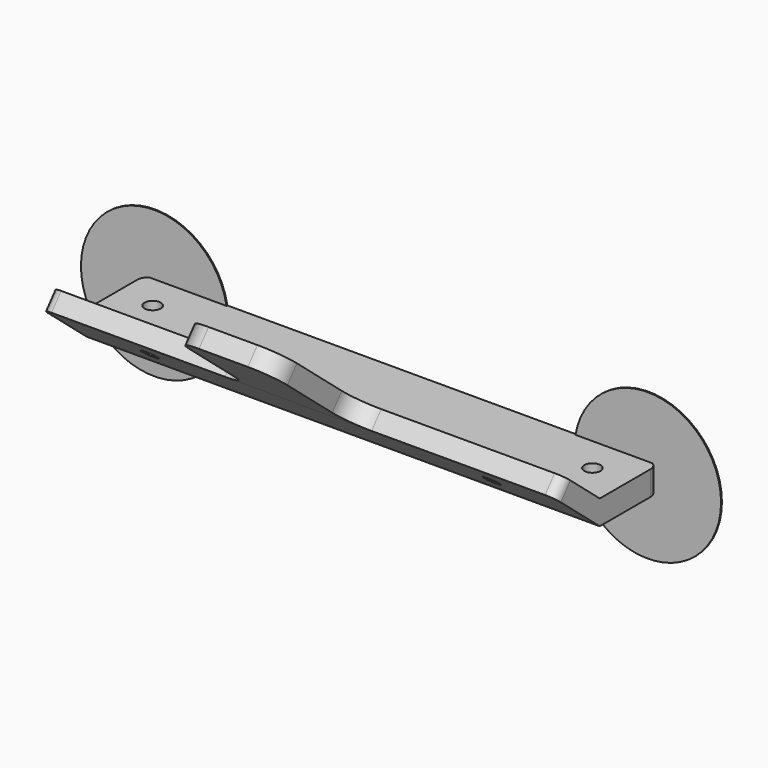
from build123d import *

# Parameters (mm, degrees)
F1_DEPTH       = 105
F3_R           = 2
F4_D           = 3.3
F4_DEPTH       = 15
F4_CSINK_D     = 6.72
F4_CSINK_ANGLE = 90
F4_TIP         = 0.9914200214
F6_D           = 3.3
F6_DEPTH       = 15
F6_TIP         = 0.9914200214
F7_W           = 20
F7_H           = 3.8302222156
F8_DEPTH       = 25
F9_R           = 5
F11_DEPTH      = 0.22


with BuildPart() as f1:
    # F0 (on Right) → F1 (new body)
    with BuildSketch(Plane.YZ):
        Polygon((-11.4906666468, 9.6418141453), (0, 0), (15, 0), (15, 5), (0, 5), (-9.0286472643, 12.5759345895), align=None)
    extrude(amount=F1_DEPTH)

    # F3
    f3_edges = [f1.edges().sort_by_distance(p)[0] for p in [
        (0, 15, 2.5),
        (105, 15, 2.5),
        (105, -10.259657, 11.108874),
        (0, -10.259657, 11.108874),
    ]]
    fillet(f3_edges, radius=F3_R)

    # F4
    with Locations(Plane(origin=(0, 0, 0), x_dir=(1, 0, 0), z_dir=(0, 0, -1))):
        with Locations((7.5, -7.5), (97.5, -7.5)):
            CounterSinkHole(F4_D / 2, F4_CSINK_D / 2, depth=F4_DEPTH, counter_sink_angle=F4_CSINK_ANGLE)
            with Locations((0, 0, -(F4_DEPTH + F4_TIP / 2))):  # 118° drill point
                Cone(0, F4_D / 2, F4_TIP, mode=Mode.SUBTRACT)

    # F6
    with Locations(Plane(origin=(0, 0, 0), x_dir=(1, 0, 0), z_dir=(0, -0.6427876097, -0.7660444431))):
        with Locations((17.5, 7.5), (87.5, 7.5)):
            Hole(F6_D / 2, depth=F6_DEPTH)
            with Locations((0, 0, -(F6_DEPTH + F6_TIP / 2))):  # 118° drill point
                Cone(0, F6_D / 2, F6_TIP, mode=Mode.SUBTRACT)

    # F7 (on face) → F8 (join)
    with BuildSketch(Plane(origin=(0, -11.4906666468, 9.6418141453), x_dir=(1, 0, 0), z_dir=(0, -0.7660444431, 0.6427876097))):
        with Locations((52.5, 1.9151111078)):
            Rectangle(F7_W, F7_H)
    extrude(amount=F8_DEPTH)

    # F9
    f9_edges = [f1.edges().sort_by_distance(p)[0] for p in [
        (42.5, -10.259657, 11.108874),
        (62.5, -10.259657, 11.108874),
        (62.5, -29.410768, 27.178565),
        (42.5, -29.410768, 27.178565),
    ]]
    fillet(f9_edges, radius=F9_R)

    # F10 (on face) → F11 (join)
    with BuildSketch(Plane(origin=(0, 15, 0), x_dir=(-1, 0, 0), z_dir=(0, 1, 0))):
        with BuildLine():
            ThreePointArc((13, 2.5), (-0.7456060958, 17.4474578418), (-16.7901994577, 5))
            Line((-16.7901994577, 5), (-2, 5))
            Line((-2, 5), (-2, 0))
            Line((-2, 0), (-16.7901994577, 0))
            ThreePointArc((-16.7901994577, 0), (-0.7456060958, -12.4474578418), (13, 2.5))
        make_face()
        with BuildLine():
            Line((-103, 5), (-88.2098005423, 5))
            ThreePointArc((-88.2098005423, 5), (-118, 2.5), (-88.2098005423, 0))
            Line((-88.2098005423, 0), (-103, 0))
            Line((-103, 0), (-103, 5))
        make_face()
    extrude(amount=-F11_DEPTH)


solid = f1.part
